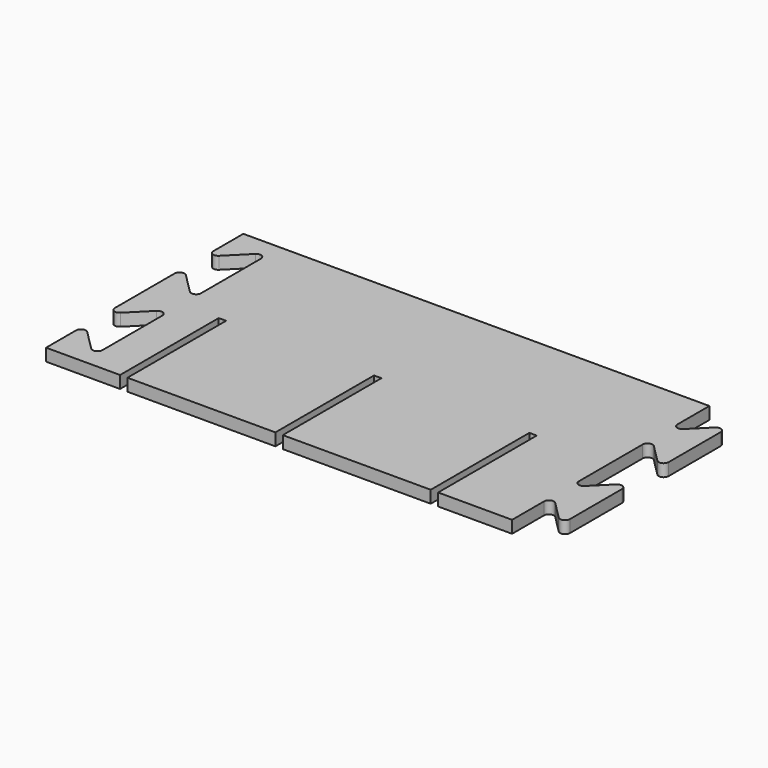
from build123d import *

# Parameters (mm, degrees)
F1_DEPTH = 5
F2_R     = 2
F3_R     = 2
F4_R     = 2


with BuildPart() as f1:
    # F0 (on Top) → F1 (new body)
    with BuildSketch(Plane.XY):
        Polygon((69, 30), (69, 50), (-120, 50), (-120, 30), (-105, 45), (-105, 25), (-105, 5), (-120, 20), (-120, 0), (-120, -20), (-105, -5), (-105, -25), (-105, -45), (-120, -30), (-120, -50), (-90, -50), (-90, 0), (-87, 0), (-87, -50), (-27, -50), (-27, 0), (-24, 0), (-24, -50), (36, -50), (36, 0), (39, 0), (39, -50), (69, -50), (69, -30), (69, -29), (83.000012, -43.000012), (83.000012, -6.999988), (69, -21), (69, -20), (69, 0), (69, 20), (69, 21), (83.000012, 6.999988), (83.000012, 25), (83.000012, 43.000012), (69, 29), align=None)
    extrude(amount=F1_DEPTH)

    # F2
    f2_edges = [f1.edges().sort_by_distance(p)[0] for p in [
        (-105, 45, 2.5),
        (-105, 5, 2.5),
        (-105, -5, 2.5),
        (-105, -45, 2.5),
        (-120, -20, 2.5),
        (-120, -30, 2.5),
        (-120, 20, 2.5),
        (-120, 30, 2.5),
    ]]
    fillet(f2_edges, radius=F2_R)

    # F3
    f3_edges = [f1.edges().sort_by_distance(p)[0] for p in [
        (83.000012, 43.000012, 2.5),
        (83.000012, 6.999988, 2.5),
        (83.000012, -6.999988, 2.5),
        (83.000012, -43.000012, 2.5),
    ]]
    fillet(f3_edges, radius=F3_R)

    # F4
    f4_edges = [f1.edges().sort_by_distance(p)[0] for p in [
        (69, 21, 2.5),
        (69, 29, 2.5),
        (69, -21, 2.5),
        (69, -29, 2.5),
    ]]
    fillet(f4_edges, radius=F4_R)


solid = f1.part
